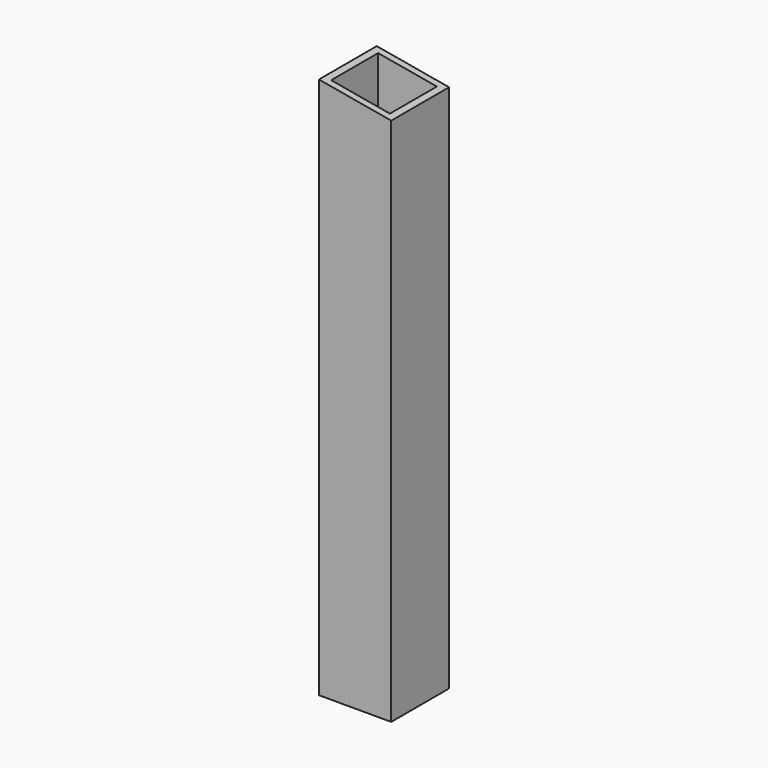
from build123d import *

# Parameters (mm, degrees)
F0_W     = 50.8
F0_H     = 50.8
F0_W_2   = 41.275
F0_H_2   = 41.275
F1_DEPTH = 381
F3_DEPTH = 50.801


with BuildPart() as f1:
    # F0 (on Top) → F1 (new body)
    with BuildSketch(Plane.XY):
        with Locations((-25.4, 25.4)):
            Rectangle(F0_W, F0_H)
        with Locations((-25.4, 25.4)):
            Rectangle(F0_W_2, F0_H_2, mode=Mode.SUBTRACT)
    extrude(amount=F1_DEPTH)

    # F2 (on face) → F3 (cut, through all)
    with BuildSketch(Plane.XZ):
        Polygon((0, 372.042589), (0, 381), (-50.8, 381), align=None)
    extrude(amount=-F3_DEPTH, mode=Mode.SUBTRACT)


solid = f1.part
